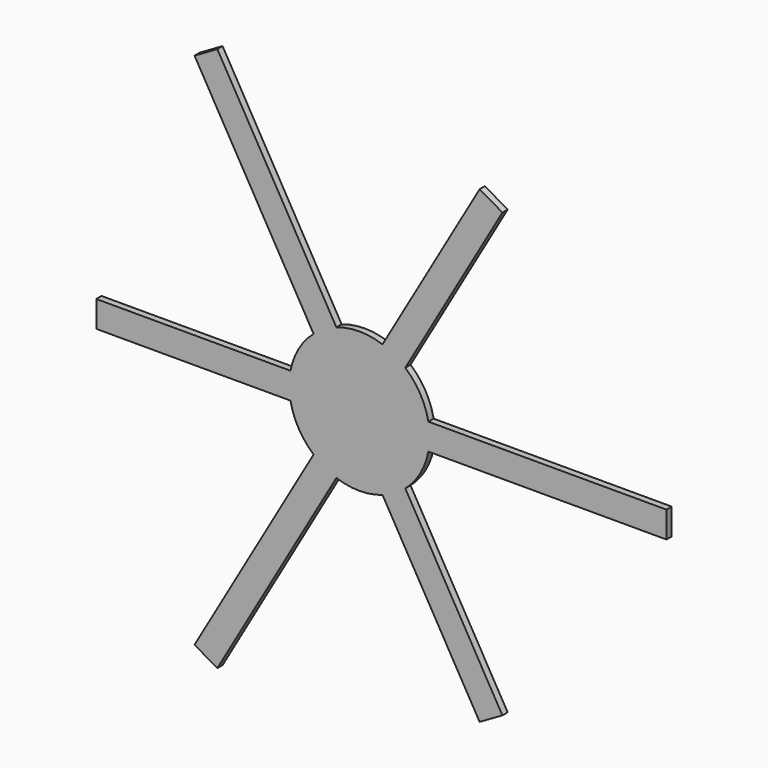
from build123d import *

# Parameters (mm, degrees)
F1_DEPTH = 1.5


with BuildPart() as f1:
    # F0 (on Front) → F1 (new body)
    with BuildSketch(Plane.XZ):
        with BuildLine():
            Line((-60, -3), (-15.716234, -3))
            ThreePointArc((-15.716234, -3), (-13.856406, -8), (-10.456193, -12.110658))
            Line((-10.456193, -12.110658), (-37.598076, -59.121778))
            Line((-37.598076, -59.121778), (-32.401924, -62.121778))
            Line((-32.401924, -62.121778), (-5.260041, -15.110658))
            ThreePointArc((-5.260041, -15.110658), (0, -16), (5.260041, -15.110658))
            Line((5.260041, -15.110658), (27.401924, -53.461524))
            Line((27.401924, -53.461524), (32.598076, -50.461524))
            Line((32.598076, -50.461524), (10.456193, -12.110658))
            ThreePointArc((10.456193, -12.110658), (13.856406, -8), (15.716234, -3))
            Line((15.716234, -3), (70, -3))
            Line((70, -3), (70, 3))
            Line((70, 3), (15.716234, 3))
            ThreePointArc((15.716234, 3), (13.856406, 8), (10.456193, 12.110658))
            Line((10.456193, 12.110658), (32.598076, 50.461524))
            Line((32.598076, 50.461524), (27.401924, 53.461524))
            Line((27.401924, 53.461524), (5.260041, 15.110658))
            ThreePointArc((5.260041, 15.110658), (0, 16), (-5.260041, 15.110658))
            Line((-5.260041, 15.110658), (-32.401924, 62.121778))
            Line((-32.401924, 62.121778), (-37.598076, 59.121778))
            Line((-37.598076, 59.121778), (-10.456193, 12.110658))
            ThreePointArc((-10.456193, 12.110658), (-13.856406, 8), (-15.716234, 3))
            Line((-15.716234, 3), (-60, 3))
            Line((-60, 3), (-60, -3))
        make_face()
    extrude(amount=F1_DEPTH)


solid = f1.part
